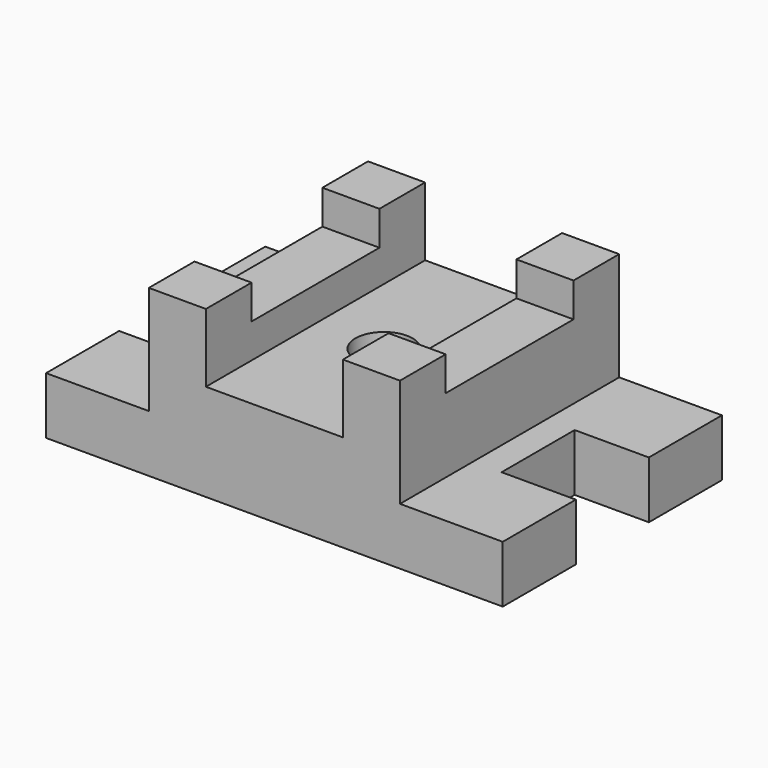
from build123d import *

# Parameters (mm, degrees)
F0_W     = 38.1
F0_H     = 53.975
F0_W_2   = 57.15
F0_H_2   = 31.75
F0_W_3   = 31.75
F0_H_3   = 19.05
F1_DEPTH = 38.1
F2_W     = 31.75
F2_H     = 19.05
F3_DEPTH = 44.45
F4_W     = 41.275
F4_H     = 31.75
F5_DEPTH = 25.4
F8_R     = 15.875
F9_DEPTH = 53.976


with BuildPart() as f1:
    # F0 (on Front) → F1 (new body, symmetric)
    with BuildSketch(Plane.XZ):
        Rectangle(F0_W, F0_H)
        Polygon((19.05, 46.0375), (19.05, 26.9875), (19.05, -26.9875), (50.8, -26.9875), (50.8, 4.7625), (50.8, 46.0375), align=None)
        with Locations((79.375, -11.1125)):
            Rectangle(F0_W_2, F0_H_2)
        with Locations((34.925, 55.5625)):
            Rectangle(F0_W_3, F0_H_3)
    extrude(amount=F1_DEPTH, both=True)

    # F2 (on face) → F3 (cut)
    with BuildSketch(Plane(origin=(0, 38.1, 0), x_dir=(-1, 0, 0), z_dir=(0, 1, 0))):
        with Locations((-34.925, 55.5625)):
            Rectangle(F2_W, F2_H)
    extrude(amount=-F3_DEPTH, mode=Mode.SUBTRACT)

    # F4 (on face) → F5 (cut)
    with BuildSketch(Plane(origin=(0, 38.1, 0), x_dir=(-1, 0, 0), z_dir=(0, 1, 0))):
        with Locations((-87.3125, -11.1125)):
            Rectangle(F4_W, F4_H)
    extrude(amount=-F5_DEPTH, mode=Mode.SUBTRACT)

    # F6: F1 across face


with BuildPart() as f1_1:
    add(f1.part)
    add(f1.part.mirror(Plane(origin=(22.664514, 38.1, 3.378357), x_dir=(1, 0, 0), z_dir=(0, 1, 0))))

    # F7: F1 across face


with BuildPart() as f1_2:
    add(f1_1.part)
    add(f1_1.part.mirror(Plane(origin=(-19.05, 38.1, 0), x_dir=(0, -1, 0), z_dir=(-1, 0, 0))))

    # F8 (on face) → F9 (cut, through all)
    with BuildSketch(Plane.XY.offset(26.9875)):
        with Locations((-19.05, 38.1)):
            Circle(F8_R)
    extrude(amount=-F9_DEPTH, mode=Mode.SUBTRACT)


solid = f1_2.part
